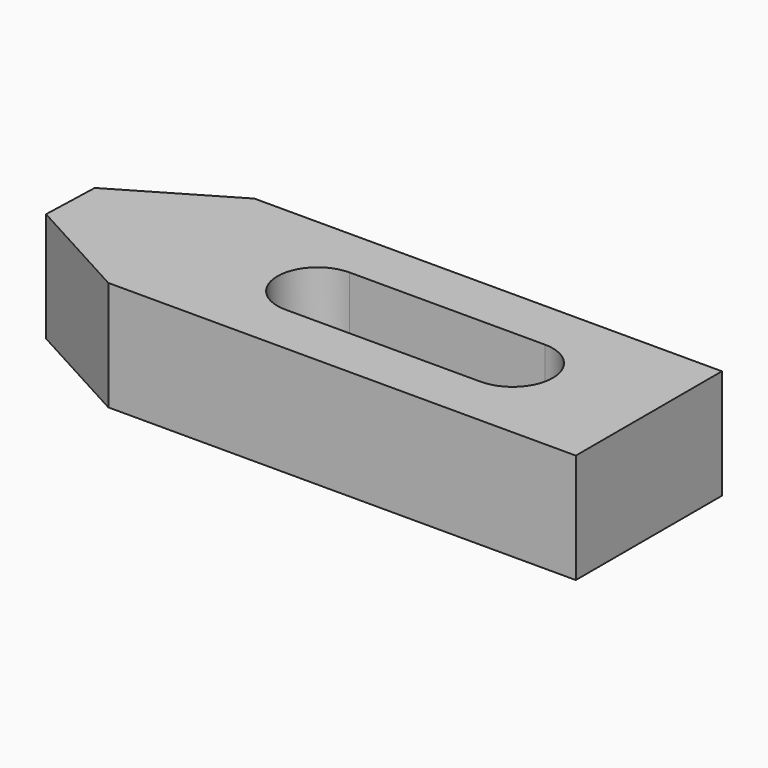
from build123d import *

# Parameters (mm, degrees)
F0_W          = 81.28
F0_H          = 31.75
F1_DEPTH      = 19.05
F3_DEPTH      = 19.304
F3_DEPTH_BACK = 19.05
F4_DEPTH      = 19.05


with BuildPart() as f1:
    # F0 (on Top) → F1 (new body)
    with BuildSketch(Plane.XY):
        Rectangle(F0_W, F0_H)
    extrude(amount=F1_DEPTH)

    # F2 (on Top) → F3 (cut, two sides)
    with BuildSketch(Plane.XY) as f3_sk:
        with BuildLine():
            ThreePointArc((-16.953665, 6.985), (-23.940335, 0.000835), (-16.955335, -6.985))
            Line((-16.955335, -6.985), (16.953665, -6.985))
            ThreePointArc((16.953665, -6.985), (23.938665, -0.000835), (16.955335, 6.985))
            Line((16.955335, 6.985), (-16.953665, 6.985))
        make_face()
    extrude(amount=F3_DEPTH, mode=Mode.SUBTRACT)
    extrude(f3_sk.sketch, amount=-F3_DEPTH_BACK, mode=Mode.SUBTRACT)

    # F0 (on Top) → F4 (join)
    with BuildSketch(Plane.XY):
        Polygon((-40.64, -15.875), (-40.64, 15.875), (-59.514749, 4.778779), (-59.853135, -5.375585), align=None)
    extrude(amount=F4_DEPTH)


solid = f1.part
